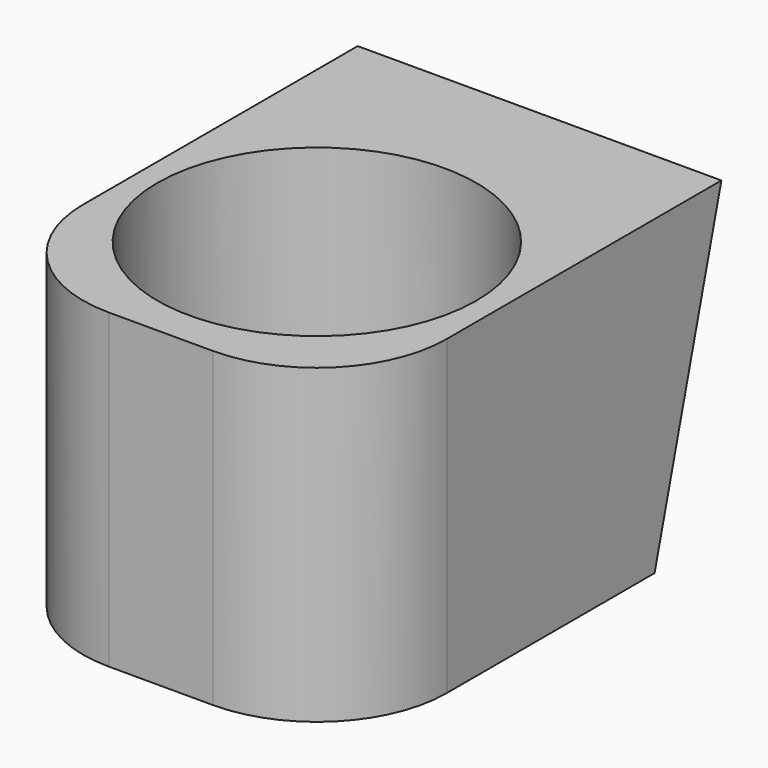
from build123d import *

# Parameters (mm, degrees)
F0_W     = 88.9
F0_H     = 76.2
F1_DEPTH = 88.9
F2_R     = 34.925
F3_DEPTH = 25.4
F4_R     = 38.989
F5_DEPTH = 50.8
F6_W     = 6.35
F6_H     = 6.35
F7_DEPTH = 2.54
F8_R     = 3.556
F9_DEPTH = 12.7
F10_R    = 31.75


with BuildPart() as f1:
    # F0 (on Right) → F1 (new body)
    with BuildSketch(Plane.YZ):
        with Locations((-44.45, 38.1)):
            Rectangle(F0_W, F0_H)
        Polygon((0, 76.2), (0, 0), (6.35, 0), (26.7677284633, 76.2), align=None)
    extrude(amount=F1_DEPTH)

    # F2 (on face) → F3 (cut)
    with BuildSketch(Plane(origin=(0, 0, 0), x_dir=(1, 0, 0), z_dir=(0, 0, -1))):
        with Locations((44.45, 41.275)):
            Circle(F2_R)
    extrude(amount=-F3_DEPTH, mode=Mode.SUBTRACT)

    # F4 (on face) → F5 (cut)
    with BuildSketch(Plane.XY.offset(76.2)):
        with Locations((44.45, -41.275)):
            Circle(F4_R)
    extrude(amount=-F5_DEPTH, mode=Mode.SUBTRACT)

    # F6 (on face) → F7 (join)
    with BuildSketch(Plane(origin=(0, 0, 0), x_dir=(1, 0, 0), z_dir=(0, 0, -1))):
        with BuildLine():
            Line((79.2303824016, 44.45), (47.625, 44.45))
            Line((47.625, 44.45), (47.625, 38.1))
            Line((47.625, 38.1), (79.2303824016, 38.1))
            ThreePointArc((79.2303824016, 38.1), (79.3388268675, 39.6858540619), (79.375, 41.275))
            ThreePointArc((79.375, 41.275), (79.3388268675, 42.8641459381), (79.2303824016, 44.45))
        make_face()
        with BuildLine():
            Line((41.275, 76.0553824016), (41.275, 44.45))
            Line((41.275, 44.45), (47.625, 44.45))
            Line((47.625, 44.45), (47.625, 76.0553824016))
            ThreePointArc((47.625, 76.0553824016), (44.45, 76.2), (41.275, 76.0553824016))
        make_face()
        with BuildLine():
            Line((41.275, 44.45), (9.6696175984, 44.45))
            ThreePointArc((9.6696175984, 44.45), (9.525, 41.275), (9.6696175984, 38.1))
            Line((9.6696175984, 38.1), (41.275, 38.1))
            Line((41.275, 38.1), (41.275, 44.45))
        make_face()
        with Locations((44.45, 41.275)):
            Rectangle(F6_W, F6_H)
        with BuildLine():
            Line((47.625, 38.1), (41.275, 38.1))
            Line((41.275, 38.1), (41.275, 6.4946175984))
            ThreePointArc((41.275, 6.4946175984), (44.45, 6.35), (47.625, 6.4946175984))
            Line((47.625, 6.4946175984), (47.625, 38.1))
        make_face()
    extrude(amount=-F7_DEPTH)

    # F8 (on face) → F9 (cut)
    with BuildSketch(Plane(origin=(0, 5.924630657, -1.5875), x_dir=(-1, 0, 0), z_dir=(0, 0.9659258263, -0.2588190451))):
        with Locations((-69.85, 66.48752341)):
            Circle(F8_R)
        with Locations((-19.05, 66.48752341)):
            Circle(F8_R)
        with Locations((-69.85, 15.68752341)):
            Circle(F8_R)
        with Locations((-19.05, 15.68752341)):
            Circle(F8_R)
    extrude(amount=-F9_DEPTH, mode=Mode.SUBTRACT)

    # F10
    f10_edges = [f1.edges().sort_by_distance(p)[0] for p in [
        (0, -88.9, 38.1),
        (88.9, -88.9, 38.1),
    ]]
    fillet(f10_edges, radius=F10_R)


solid = f1.part
